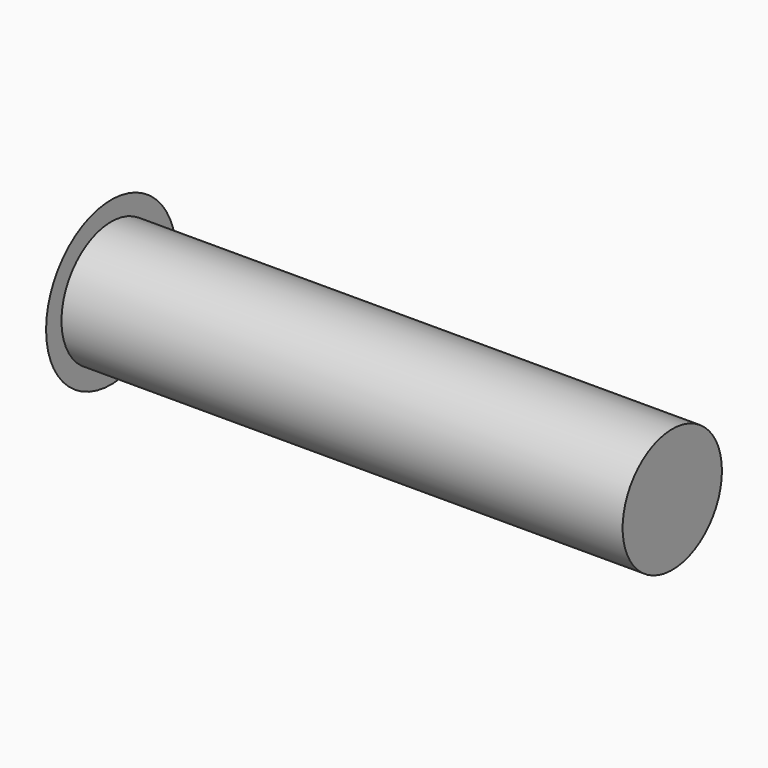
from build123d import *

# Parameters (mm, degrees)
F0_R     = 2.3876
F1_DEPTH = 21.59


with BuildPart() as f1:
    # F0 (on Right) → F1 (new body)
    with BuildSketch(Plane.YZ):
        Circle(F0_R)
    extrude(amount=F1_DEPTH)

    # F2 (on Top) → F3 (revolve)
    with BuildSketch(Plane.XY):
        with BuildLine():
            Line((0, -3.129051), (0, 0))
            Line((0, 0), (-0.82417, 0))
            ThreePointArc((-0.82417, 0), (-0.632173, -1.622495), (0, -3.129051))
        make_face()
    revolve(axis=Axis((-1.980953, 0, 0), (-1, 0, 0)))


solid = f1.part
